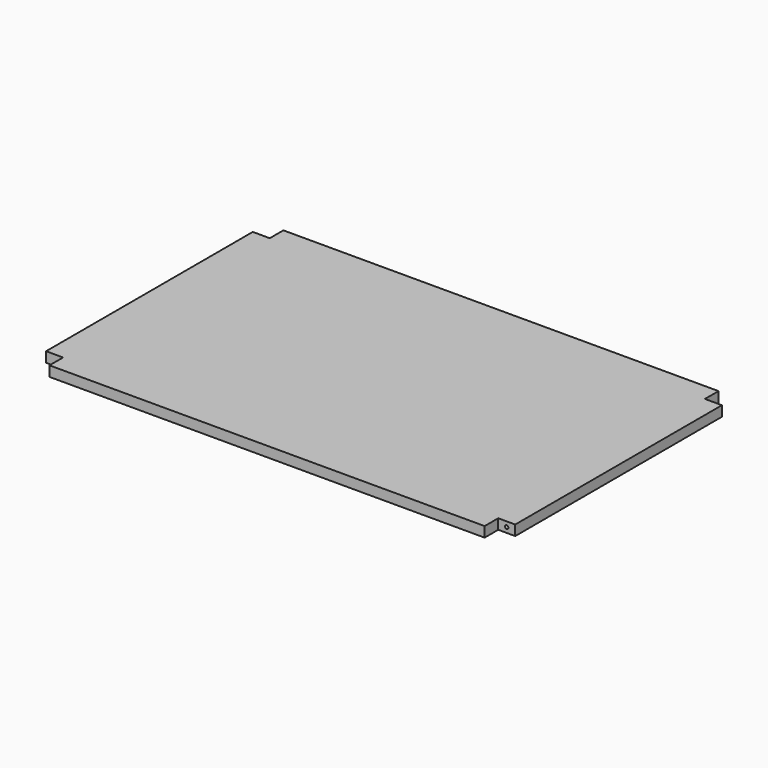
from build123d import *

# Parameters (mm, degrees)
F1_DEPTH = 9.525
F2_R     = 3.175
F3_DEPTH = 12.7
F4_R     = 3.175
F5_DEPTH = 12.7


with BuildPart() as f1:
    # F0 (on Top) → F1 (new body, symmetric)
    with BuildSketch(Plane.XY):
        Polygon((406.4, 273.05), (-406.4, 273.05), (-406.4, 241.3), (-438.15, 241.3), (-438.15, -241.3), (-406.4, -241.3), (-406.4, -273.05), (406.4, -273.05), (406.4, -241.3), (438.15, -241.3), (438.15, 241.3), (406.4, 241.3), align=None)
    extrude(amount=F1_DEPTH, both=True)

    # F2 (on face) → F3 (cut)
    with BuildSketch(Plane.XZ.offset(241.3)):
        with Locations((422.275, 0)):
            Circle(F2_R)
    extrude(amount=-F3_DEPTH, mode=Mode.SUBTRACT)

    # F4 (on face) → F5 (cut)
    with BuildSketch(Plane(origin=(0, 241.3, 0), x_dir=(-1, 0, 0), z_dir=(0, 1, 0))):
        with Locations((422.275, 0)):
            Circle(F4_R)
    extrude(amount=-F5_DEPTH, mode=Mode.SUBTRACT)


solid = f1.part
